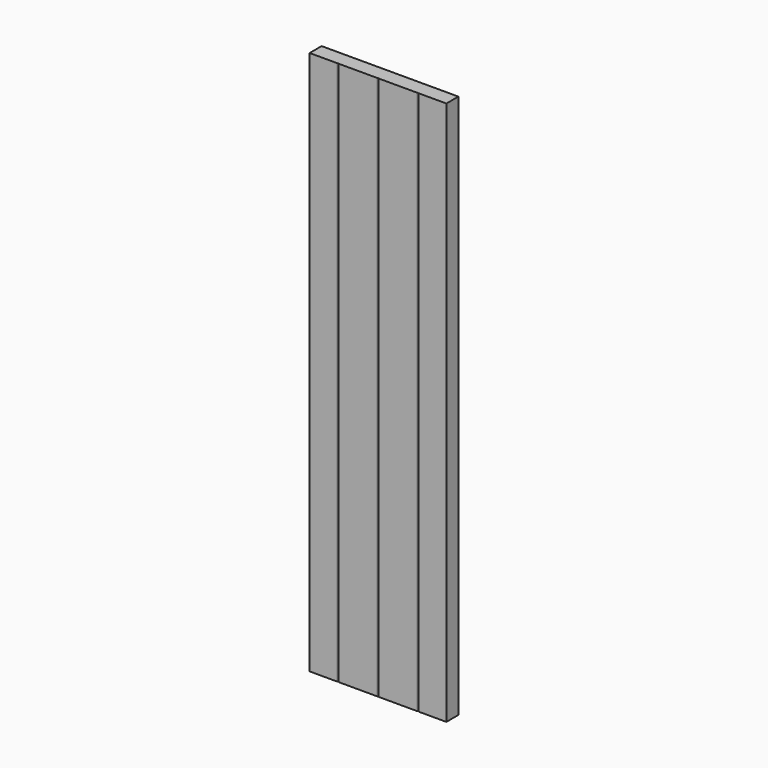
from build123d import *

# Parameters (mm, degrees)
F1_DEPTH = 692.15
F2_W     = 508
F2_H     = 137.227848
F2_H_2   = 195.285798
F3_DEPTH = 1143


with BuildPart() as f1:
    # F0 (on Top) → F1 (new body)
    with BuildSketch(Plane.XY):
        with BuildLine():
            Line((458.216, -9.525), (508, -9.525))
            Line((508, -9.525), (508, 9.525))
            Line((508, 9.525), (-508, 9.525))
            Line((-508, 9.525), (-508, -8.509))
            ThreePointArc((-508, -8.509), (-507.70242, -9.22742), (-506.984, -9.525))
            Line((-506.984, -9.525), (-458.216, -9.525))
            ThreePointArc((-458.216, -9.525), (-457.49758, -9.22742), (-457.2, -8.509))
            ThreePointArc((-457.2, -8.509), (-456.90242, -9.22742), (-456.184, -9.525))
            Line((-456.184, -9.525), (-407.416, -9.525))
            ThreePointArc((-407.416, -9.525), (-406.69758, -9.22742), (-406.4, -8.509))
            ThreePointArc((-406.4, -8.509), (-406.10242, -9.22742), (-405.384, -9.525))
            Line((-405.384, -9.525), (-356.616, -9.525))
            ThreePointArc((-356.616, -9.525), (-355.89758, -9.22742), (-355.6, -8.509))
            ThreePointArc((-355.6, -8.509), (-355.30242, -9.22742), (-354.584, -9.525))
            Line((-354.584, -9.525), (-305.816, -9.525))
            ThreePointArc((-305.816, -9.525), (-305.09758, -9.22742), (-304.8, -8.509))
            ThreePointArc((-304.8, -8.509), (-304.50242, -9.22742), (-303.784, -9.525))
            Line((-303.784, -9.525), (-255.016, -9.525))
            ThreePointArc((-255.016, -9.525), (-254.29758, -9.22742), (-254, -8.509))
            ThreePointArc((-254, -8.509), (-253.70242, -9.22742), (-252.984, -9.525))
            Line((-252.984, -9.525), (-204.216, -9.525))
            ThreePointArc((-204.216, -9.525), (-203.49758, -9.22742), (-203.2, -8.509))
            ThreePointArc((-203.2, -8.509), (-202.90242, -9.22742), (-202.184, -9.525))
            Line((-202.184, -9.525), (-153.416, -9.525))
            ThreePointArc((-153.416, -9.525), (-152.69758, -9.22742), (-152.4, -8.509))
            ThreePointArc((-152.4, -8.509), (-152.10242, -9.22742), (-151.384, -9.525))
            Line((-151.384, -9.525), (-102.616, -9.525))
            ThreePointArc((-102.616, -9.525), (-101.89758, -9.22742), (-101.6, -8.509))
            ThreePointArc((-101.6, -8.509), (-101.30242, -9.22742), (-100.584, -9.525))
            Line((-100.584, -9.525), (-51.816, -9.525))
            ThreePointArc((-51.816, -9.525), (-51.09758, -9.22742), (-50.8, -8.509))
            ThreePointArc((-50.8, -8.509), (-50.50242, -9.22742), (-49.784, -9.525))
            Line((-49.784, -9.525), (-1.016, -9.525))
            ThreePointArc((-1.016, -9.525), (-0.29758, -9.22742), (0, -8.509))
            ThreePointArc((0, -8.509), (0.29758, -9.22742), (1.016, -9.525))
            Line((1.016, -9.525), (49.784, -9.525))
            ThreePointArc((49.784, -9.525), (50.50242, -9.22742), (50.8, -8.509))
            ThreePointArc((50.8, -8.509), (51.09758, -9.22742), (51.816, -9.525))
            Line((51.816, -9.525), (100.584, -9.525))
            ThreePointArc((100.584, -9.525), (101.30242, -9.22742), (101.6, -8.509))
            ThreePointArc((101.6, -8.509), (101.89758, -9.22742), (102.616, -9.525))
            Line((102.616, -9.525), (151.384, -9.525))
            ThreePointArc((151.384, -9.525), (152.10242, -9.22742), (152.4, -8.509))
            ThreePointArc((152.4, -8.509), (152.69758, -9.22742), (153.416, -9.525))
            Line((153.416, -9.525), (202.184, -9.525))
            ThreePointArc((202.184, -9.525), (202.90242, -9.22742), (203.2, -8.509))
            ThreePointArc((203.2, -8.509), (203.49758, -9.22742), (204.216, -9.525))
            Line((204.216, -9.525), (252.984, -9.525))
            ThreePointArc((252.984, -9.525), (253.70242, -9.22742), (254, -8.509))
            ThreePointArc((254, -8.509), (254.29758, -9.22742), (255.016, -9.525))
            Line((255.016, -9.525), (303.784, -9.525))
            ThreePointArc((303.784, -9.525), (304.50242, -9.22742), (304.8, -8.509))
            ThreePointArc((304.8, -8.509), (305.09758, -9.22742), (305.816, -9.525))
            Line((305.816, -9.525), (354.584, -9.525))
            ThreePointArc((354.584, -9.525), (355.30242, -9.22742), (355.6, -8.509))
            ThreePointArc((355.6, -8.509), (355.89758, -9.22742), (356.616, -9.525))
            Line((356.616, -9.525), (405.384, -9.525))
            ThreePointArc((405.384, -9.525), (406.10242, -9.22742), (406.4, -8.509))
            ThreePointArc((406.4, -8.509), (406.69758, -9.22742), (407.416, -9.525))
            Line((407.416, -9.525), (456.184, -9.525))
            ThreePointArc((456.184, -9.525), (456.90242, -9.22742), (457.2, -8.509))
            ThreePointArc((457.2, -8.509), (457.49758, -9.22742), (458.216, -9.525))
        make_face()
        with BuildLine():
            ThreePointArc((-506.984, -9.525), (-507.70242, -9.22742), (-508, -8.509))
            Line((-508, -8.509), (-508, -9.525))
            Line((-508, -9.525), (-506.984, -9.525))
        make_face()
    extrude(amount=F1_DEPTH)

    # F2 (on Top) → F3 (cut)
    with BuildSketch(Plane.XY):
        with Locations((340.9188, -20.971623)):
            Rectangle(F2_W, F2_H)
        with Locations((-340.915625, -39.444607)):
            Rectangle(F2_W, F2_H_2)
    extrude(amount=F3_DEPTH, mode=Mode.SUBTRACT)


solid = f1.part
